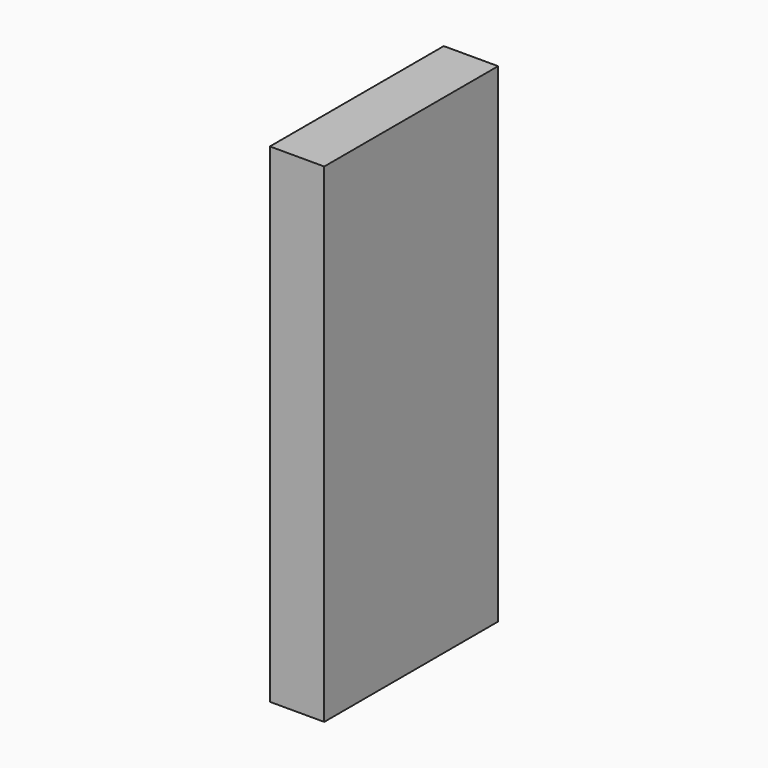
from build123d import *

# Parameters (mm, degrees)
BOX_W     = 1
BOX_H     = 4
BOX_DEPTH = 9


with BuildPart() as part:
    # Box → Box (new body)
    with BuildSketch(Plane.XY):
        with Locations((0.5, 2)):
            Rectangle(BOX_W, BOX_H)
    extrude(amount=BOX_DEPTH)


solid = part.part
